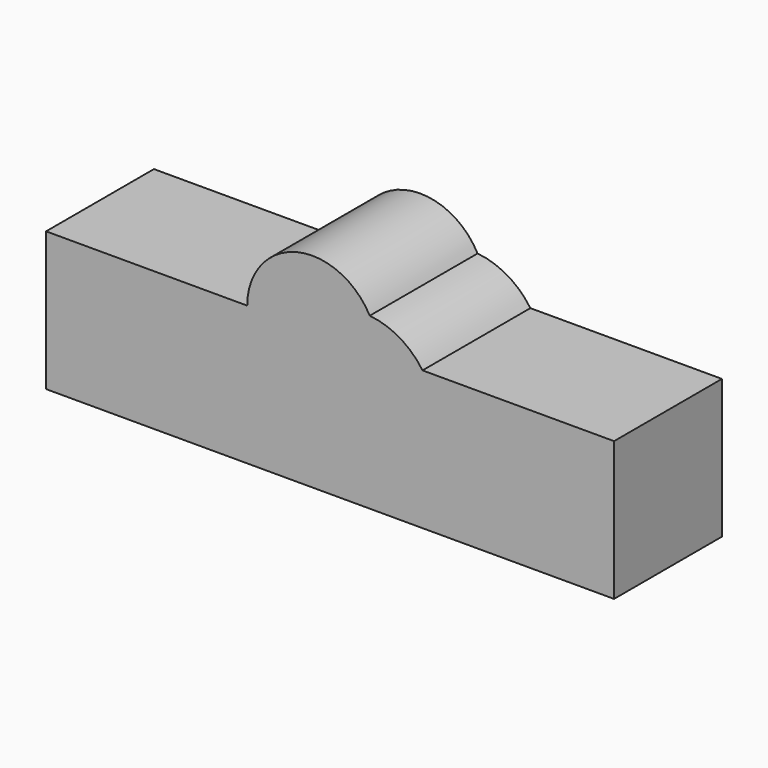
from build123d import *

# Parameters (mm, degrees)
F1_DEPTH = 25.4


with BuildPart() as f1:
    # F0 (on Front) → F1 (new body)
    with BuildSketch(Plane.XZ):
        with BuildLine():
            Line((-12.276322, 44.002325), (-50.172936, 44.002325))
            Line((-50.172936, 44.002325), (-50.172936, 17.832386))
            Line((-50.172936, 17.832386), (56.840438, 17.832386))
            Line((56.840438, 17.832386), (56.840438, 44.002325))
            Line((56.840438, 44.002325), (20.750402, 44.002325))
            ThreePointArc((20.750402, 44.002325), (16.42426, 48.022131), (10.803305, 49.832991))
            ThreePointArc((10.803305, 49.832991), (-3.006927, 55.904697), (-12.276322, 44.002325))
        make_face()
    extrude(amount=F1_DEPTH)


solid = f1.part
